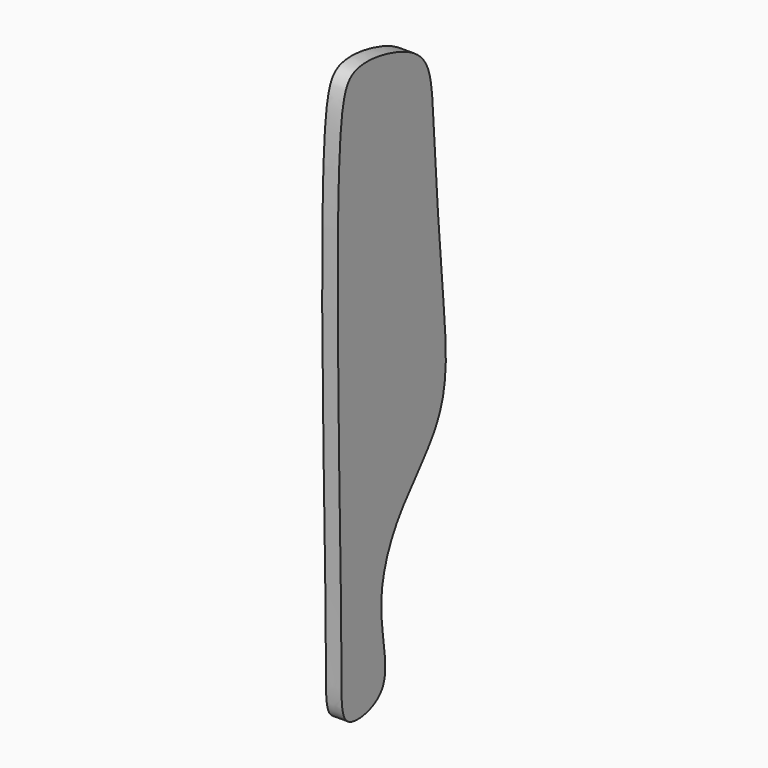
from build123d import *

# Parameters (mm, degrees)
F1_DEPTH = 1


with BuildPart() as f1:
    # F0 (on Right) → F1 (new body)
    with BuildSketch(Plane.YZ):
        with BuildLine():
            add(Edge.make_bspline(
                [(-24.4014095515, -13.679577969), (-24.4129129176, -6.8504318828), (-25.2627452244, 16.6959962114), (-23.5524538207, 19.7214724307), (-20.1124259413, 19.2539216179), (-17.2061991058, 17.8388858402), (-17.0191894534, 13.6400315978), (-16.3349913251, 4.0920415639), (-15.5133368881, -3.0399119176), (-20.1410845228, -7.0126009019), (-21.7892700184, -11.9408507086), (-20.0451567022, -17.0447498297), (-24.5346370725, -17.9173083915), (-24.3973692098, -16.0781875384), (-24.4014095515, -13.679577969)],
                knots=[0, 0, 0, 0, 0.1934306589, 0.2515127087, 0.3117903778, 0.3711101043, 0.4390489897, 0.5490643895, 0.6410101869, 0.722861599, 0.8022370307, 0.8759341906, 0.9320611064, 1, 1, 1, 1], degree=3))
        make_face()
    extrude(amount=F1_DEPTH)


solid = f1.part
